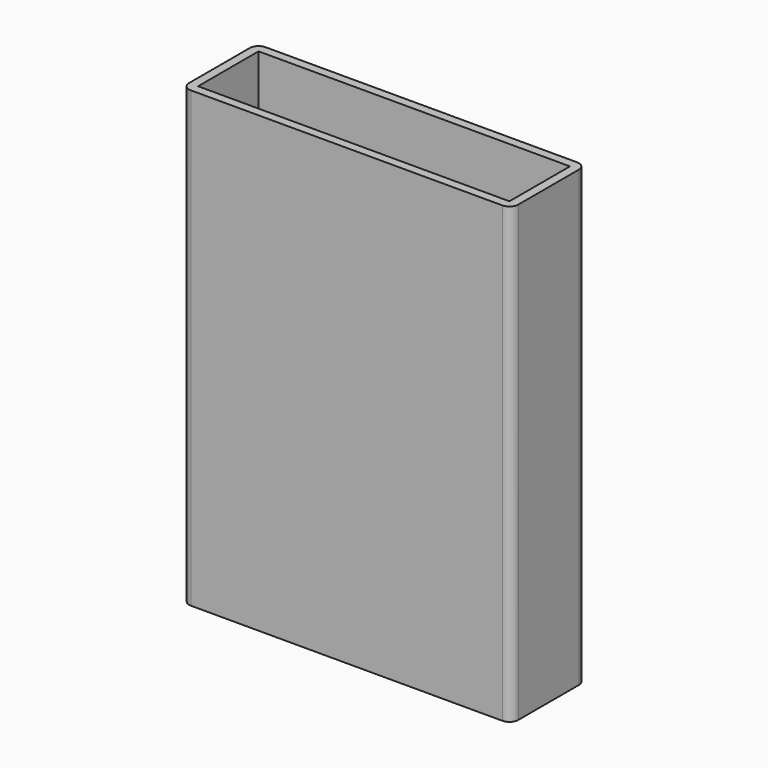
from build123d import *

# Parameters (mm, degrees)
F0_W          = 70
F0_H          = 17
F1_DEPTH      = 2
F2_DEPTH      = 100
F2_DEPTH_BACK = 2


with BuildPart() as f1:
    # F0 (on Top) → F1 (new body)
    with BuildSketch(Plane.XY):
        Rectangle(F0_W, F0_H)
    extrude(amount=-F1_DEPTH)

    # F0 (on Top) → F2 (join, two sides)
    with BuildSketch(Plane.XY) as f2_sk:
        with BuildLine():
            ThreePointArc((37, 8.5), (36.414214, 9.914214), (35, 10.5))
            Line((35, 10.5), (-35, 10.5))
            ThreePointArc((-35, 10.5), (-36.414214, 9.914214), (-37, 8.5))
            Line((-37, 8.5), (-37, -8.5))
            ThreePointArc((-37, -8.5), (-36.414214, -9.914214), (-35, -10.5))
            Line((-35, -10.5), (35, -10.5))
            ThreePointArc((35, -10.5), (36.414214, -9.914214), (37, -8.5))
            Line((37, -8.5), (37, 8.5))
        make_face()
        Rectangle(F0_W, F0_H, mode=Mode.SUBTRACT)
    extrude(amount=F2_DEPTH)
    extrude(f2_sk.sketch, amount=-F2_DEPTH_BACK)


solid = f1.part
